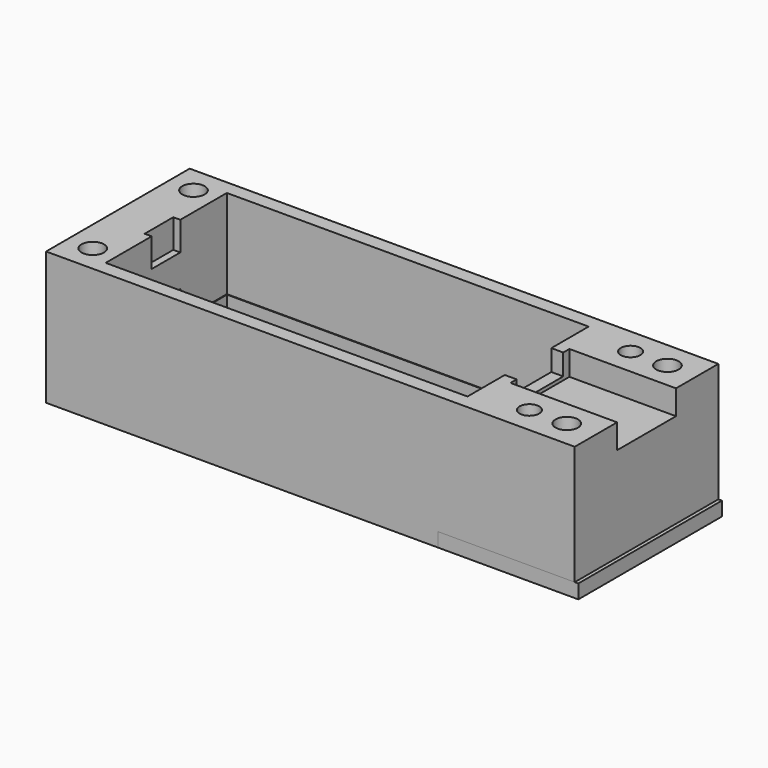
from build123d import *

# Parameters (mm, degrees)
SKETCH_W             = 75.4
SKETCH_H             = 25.4
PAD_DEPTH            = 6.3
SKETCH001_W          = 51.4
SKETCH001_H          = 2.8
POCKET_DEPTH         = 4.801
SKETCH002_W          = 51.4
SKETCH002_H          = 21.4
POCKET001_DEPTH      = 1.801
SKETCH003_R          = 0.9
PAD001_DEPTH         = 6.3
SKETCH004_W          = 3
SKETCH004_H          = 8.2
POCKET002_DEPTH      = 1.801
SKETCH005_W          = 20.2
SKETCH005_H          = 10.5
POCKET003_DEPTH      = 5
SKETCH006_R          = 1.4
POCKET004_DEPTH      = 0.001
POCKET004_DEPTH_BACK = -6.301
SKETCH016_R          = 1.5
SKETCH016_W          = 1
SKETCH016_H          = 5
PAD003_DEPTH         = 4
SKETCH007_W          = 75.4
SKETCH007_H          = 25.6
PAD002_DEPTH         = 19
SKETCH009_W          = 51.6
SKETCH009_H          = 21.6
POCKET006_DEPTH      = 17.501
SKETCH011_W          = 3
SKETCH011_H          = 8.3
POCKET007_DEPTH      = 3.001
SKETCH012_W          = 20.1
SKETCH012_H          = 10.5
POCKET008_DEPTH      = 5
SKETCH013_R          = 1.4
POCKET009_DEPTH      = 0.001
POCKET009_DEPTH_BACK = -19.001
SKETCH014_R          = 3
POCKET010_DEPTH      = 13
SKETCH015_W          = 51.4
SKETCH015_H          = 2.8
POCKET011_DEPTH      = 5
SKETCH017_R          = 1.6
SKETCH017_W          = 1.1
SKETCH017_H          = 5.1
POCKET012_DEPTH      = 4.1
SKETCH019_W          = 20
SKETCH019_H          = 25.6
PAD004_DEPTH         = 2
SKETCH018_R          = 2.99
PAD005_DEPTH         = 10


with BuildPart() as body:
    # Sketch → Pad (new body)
    with BuildSketch(Plane.XY):
        with Locations((30.5, 10.5)):
            Rectangle(SKETCH_W, SKETCH_H)
    extrude(amount=PAD_DEPTH)

    # Sketch001 → Pocket (cut, through all)
    with BuildSketch(Plane.XY.offset(1.5)):
        with Locations((25.5, 1.4)):
            Rectangle(SKETCH001_W, SKETCH001_H)
        with Locations((25.5, 19.6)):
            Rectangle(SKETCH001_W, SKETCH001_H)
    extrude(amount=POCKET_DEPTH, mode=Mode.SUBTRACT)

    # Sketch002 → Pocket001 (cut, through all)
    with BuildSketch(Plane.XY.offset(4.5)):
        with Locations((25.5, 10.5)):
            Rectangle(SKETCH002_W, SKETCH002_H)
    extrude(amount=POCKET001_DEPTH, mode=Mode.SUBTRACT)

    # Sketch003 → Pad001 (join)
    with BuildSketch(Plane.XY):
        with Locations((2, 16.2)):
            Circle(SKETCH003_R)
        with Locations((2, 4.8)):
            Circle(SKETCH003_R)
        with Locations((49, 16.2)):
            Circle(SKETCH003_R)
        with Locations((49, 4.8)):
            Circle(SKETCH003_R)
    extrude(amount=PAD001_DEPTH)

    # Sketch004 → Pocket002 (cut, through all)
    with BuildSketch(Plane.XY.offset(4.5)):
        with Locations((52.5, 10.5)):
            Rectangle(SKETCH004_W, SKETCH004_H)
    extrude(amount=POCKET002_DEPTH, mode=Mode.SUBTRACT)

    # Sketch005 → Pocket003 (cut)
    with BuildSketch(Plane.XY.offset(3.5)):
        with Locations((63.1, 10.5)):
            Rectangle(SKETCH005_W, SKETCH005_H)
    extrude(amount=POCKET003_DEPTH, mode=Mode.SUBTRACT)

    # Sketch006 → Pocket004 (cut, two sides)
    with BuildSketch(Plane.XY) as pocket004_sk:
        with Locations((58.71, 1.525)):
            Circle(SKETCH006_R)
        with Locations((58.71, 19.475)):
            Circle(SKETCH006_R)
    extrude(amount=-POCKET004_DEPTH, mode=Mode.SUBTRACT)
    extrude(pocket004_sk.sketch, amount=-POCKET004_DEPTH_BACK, mode=Mode.SUBTRACT)

    # Sketch016 → Pad003 (join)
    with BuildSketch(Plane.XY.offset(6.3)):
        with Locations((64, 19.475)):
            Circle(SKETCH016_R)
        with Locations((64, 1.525)):
            Circle(SKETCH016_R)
        with Locations((-3.6, 1.525)):
            Circle(SKETCH016_R)
        with Locations((-3.6, 19.475)):
            Circle(SKETCH016_R)
        with Locations((-0.7, 10.5)):
            Rectangle(SKETCH016_W, SKETCH016_H)
    extrude(amount=PAD003_DEPTH)


with BuildPart() as body001topcover:
    # Sketch007 → Pad002 (new body)
    with BuildSketch(Plane.XY):
        with Locations((30.5, 10.5)):
            Rectangle(SKETCH007_W, SKETCH007_H)
    extrude(amount=PAD002_DEPTH)

    # Sketch009 → Pocket006 (cut, through all)
    with BuildSketch(Plane.XY.offset(1.5)):
        with Locations((25.5, 10.5)):
            Rectangle(SKETCH009_W, SKETCH009_H)
    extrude(amount=POCKET006_DEPTH, mode=Mode.SUBTRACT)

    # Sketch011 → Pocket007 (cut, through all)
    with BuildSketch(Plane.XY.offset(16)):
        with Locations((52.5, 10.5)):
            Rectangle(SKETCH011_W, SKETCH011_H)
    extrude(amount=POCKET007_DEPTH, mode=Mode.SUBTRACT)

    # Sketch012 → Pocket008 (cut)
    with BuildSketch(Plane.XY.offset(15.5)):
        with Locations((63.05, 10.5)):
            Rectangle(SKETCH012_W, SKETCH012_H)
    extrude(amount=POCKET008_DEPTH, mode=Mode.SUBTRACT)

    # Sketch013 → Pocket009 (cut, two sides)
    with BuildSketch(Plane.XY) as pocket009_sk:
        with Locations((58.71, 1.475)):
            Circle(SKETCH013_R)
        with Locations((58.71, 19.525)):
            Circle(SKETCH013_R)
    extrude(amount=-POCKET009_DEPTH, mode=Mode.SUBTRACT)
    extrude(pocket009_sk.sketch, amount=-POCKET009_DEPTH_BACK, mode=Mode.SUBTRACT)

    # Sketch014 → Pocket010 (cut)
    with BuildSketch(Plane.XY):
        with Locations((58.71, 1.475)):
            Circle(SKETCH014_R)
        with Locations((58.71, 19.525)):
            Circle(SKETCH014_R)
    extrude(amount=POCKET010_DEPTH, mode=Mode.SUBTRACT)

    # Sketch015 → Pocket011 (cut)
    with BuildSketch(Plane.XY.offset(1.5)):
        with Locations((25.5, 1.4)):
            Rectangle(SKETCH015_W, SKETCH015_H)
        with Locations((25.5, 19.6)):
            Rectangle(SKETCH015_W, SKETCH015_H)
    extrude(amount=-POCKET011_DEPTH, mode=Mode.SUBTRACT)

    # Sketch017 → Pocket012 (cut)
    with BuildSketch(Plane.XY.offset(19)):
        with Locations((64, 19.475)):
            Circle(SKETCH017_R)
        with Locations((64, 1.525)):
            Circle(SKETCH017_R)
        with Locations((-3.6, 19.475)):
            Circle(SKETCH017_R)
        with Locations((-3.6, 1.525)):
            Circle(SKETCH017_R)
        with Locations((-0.75, 10.45)):
            Rectangle(SKETCH017_W, SKETCH017_H)
    extrude(amount=-POCKET012_DEPTH, mode=Mode.SUBTRACT)


with BuildPart() as body002wireholder:
    # Sketch019 → Pad004 (new body)
    with BuildSketch(Plane.XY):
        with Locations((58.71, 10.5)):
            Rectangle(SKETCH019_W, SKETCH019_H)
    extrude(amount=PAD004_DEPTH)

    # Sketch018 → Pad005 (join)
    with BuildSketch(Plane.XY):
        with Locations((58.71, 1.475)):
            Circle(SKETCH018_R)
        with Locations((58.71, 19.525)):
            Circle(SKETCH018_R)
    extrude(amount=PAD005_DEPTH)


solid = Compound([body.part, body001topcover.part, body002wireholder.part])
